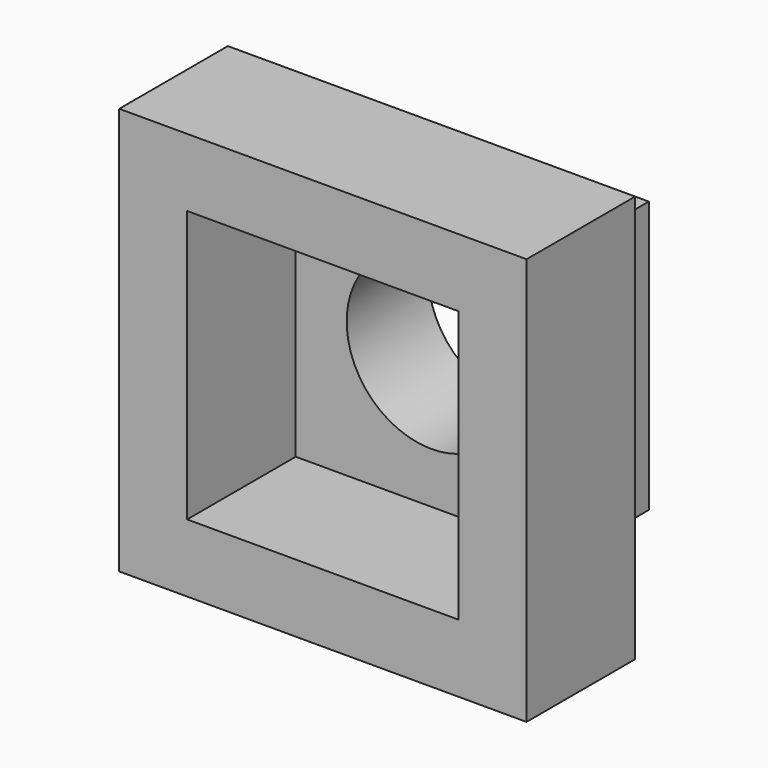
from build123d import *

# Parameters (mm, degrees)
F0_W     = 152.4
F0_H     = 152.4
F0_W_2   = 101.6
F0_H_2   = 101.6
F1_DEPTH = 50.8
F0_R     = 31.75
F2_DEPTH = 38.1


with BuildPart() as f1:
    # F0 (on Front) → F1 (new body)
    with BuildSketch(Plane.XZ):
        Rectangle(F0_W, F0_H)
        Rectangle(F0_W_2, F0_H_2, mode=Mode.SUBTRACT)
    extrude(amount=F1_DEPTH)


with BuildPart() as f2:
    # F0 (on Front) → F2 (new body)
    with BuildSketch(Plane.XZ):
        Rectangle(F0_W_2, F0_H_2)
        Circle(F0_R, mode=Mode.SUBTRACT)
    extrude(amount=-F2_DEPTH)


solid = Compound([f1.part, f2.part])
